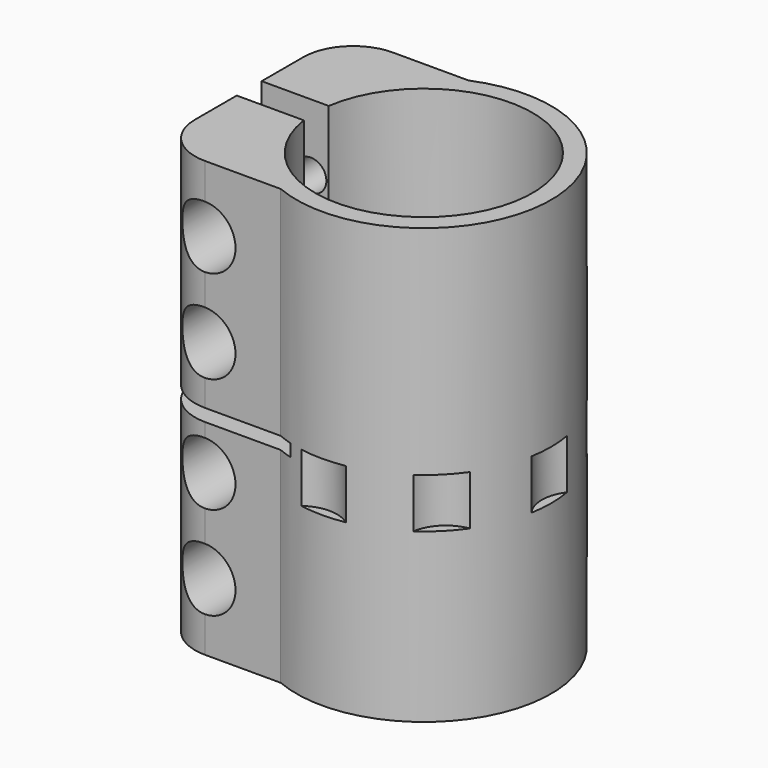
from build123d import *

# Parameters (mm, degrees)
F1_DEPTH       = 35
F3_D           = 5
F3_START       = 1.8205079
F3_CBORE_D     = 10
F3_CBORE_DEPTH = 8
F4_W           = 22.4
F4_H           = 2
F5_DEPTH       = 25
F6_R           = 6
F7_DEPTH       = 8


with BuildPart() as f1:
    # F0 (on Top) → F1 (new body, symmetric)
    with BuildSketch(Plane.XY):
        with BuildLine():
            Line((-20.1192642082, -18.9086026559), (-7.9192642082, -18.9086026559))
            ThreePointArc((-7.9192642082, -18.9086026559), (20.5, 0), (-7.9192642082, 18.9086026559))
            Line((-7.9192642082, 18.9086026559), (-20.1192642082, 18.9086026559))
            ThreePointArc((-20.1192642082, 18.9086026559), (-25.7761184577, 16.5654569054), (-28.1192642082, 10.9086026559))
            Line((-28.1192642082, 10.9086026559), (-28.1192642082, 2.5086026559))
            Line((-28.1192642082, 2.5086026559), (-17.3192642082, 2.5086026559))
            ThreePointArc((-17.3192642082, 2.5086026559), (17.5, 0), (-17.3192642082, -2.5086026559))
            Line((-17.3192642082, -2.5086026559), (-28.1192642082, -2.5086026559))
            Line((-28.1192642082, -2.5086026559), (-28.1192642082, -10.9086026559))
            ThreePointArc((-28.1192642082, -10.9086026559), (-25.7761184577, -16.5654569054), (-20.1192642082, -18.9086026559))
        make_face()
    extrude(amount=F1_DEPTH, both=True)

    # F3 (through all)
    # its depths count from where the whole tool has entered the part; down to there all is cleared
    with Locations(Plane.XZ.offset(18.9086026559).offset(-F3_START)):
        with Locations((-20.2, -24.25), (-20.2, -9.25), (-20.2, 9.25), (-20.2, 24.25)):
            CounterBoreHole(F3_D / 2, F3_CBORE_D / 2, F3_CBORE_DEPTH)

    # F4 (on Front) → F5 (cut, symmetric)
    with BuildSketch(Plane.XZ):
        with Locations((-16.9192642082, -1)):
            Rectangle(F4_W, F4_H)
    extrude(amount=F5_DEPTH, both=True, mode=Mode.SUBTRACT)

    # F6 (on Top) → F7 (cut)
    with BuildSketch(Plane.XY):
        with Locations((0, -25)):
            Circle(F6_R)
        with Locations((17.6776695297, -17.6776695297)):
            Circle(F6_R)
        with Locations((25, 0)):
            Circle(F6_R)
        with Locations((17.6776695297, 17.6776695297)):
            Circle(F6_R)
        with Locations((0, 25)):
            Circle(F6_R)
    extrude(amount=-F7_DEPTH, mode=Mode.SUBTRACT)


solid = f1.part
